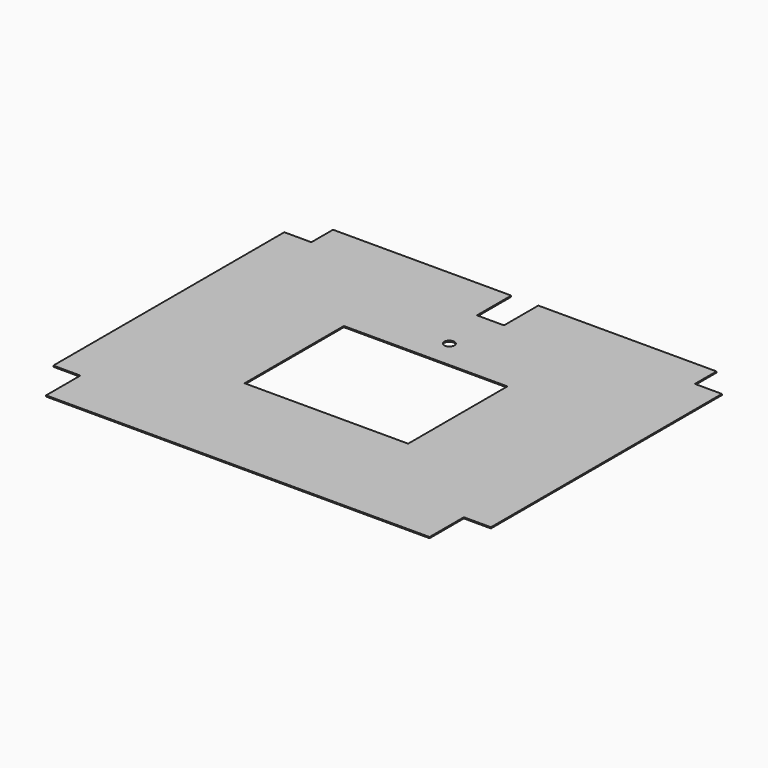
from build123d import *

# Parameters (mm, degrees)
BOX005_W       = 145
BOX005_H       = 110
BOX005_DEPTH   = 1
BOX006_W       = 24
BOX006_H       = 38
BOX006_DEPTH   = 1
CYLINDER_R     = 4.5
CYLINDER_DEPTH = 1
BOX002_W       = 24
BOX002_H       = 38
BOX002_DEPTH   = 1
BOX003_W       = 24
BOX003_H       = 24
BOX003_DEPTH   = 1
BOX004_W       = 24
BOX004_H       = 24
BOX004_DEPTH   = 1
BOX001_W       = 24
BOX001_H       = 38
BOX001_DEPTH   = 1
BOX_W          = 388
BOX_H          = 318
BOX_DEPTH      = 1


with BuildPart() as hueco_central:
    # Box005 → Box005 (new body)
    with BuildSketch(Plane(origin=(120, 100, 0), x_dir=(1, 0, 0), z_dir=(0, 0, 1))):
        with Locations((72.5, 55)):
            Rectangle(BOX005_W, BOX005_H)
    extrude(amount=BOX005_DEPTH)


with BuildPart() as cubo005:
    # Box006 → Box006 (new body)
    with BuildSketch(Plane(origin=(182, 280, 0), x_dir=(1, 0, 0), z_dir=(0, 0, 1))):
        with Locations((12, 19)):
            Rectangle(BOX006_W, BOX006_H)
    extrude(amount=BOX006_DEPTH)


with BuildPart() as cilindro:
    # Cylinder → Cylinder (new body)
    with BuildSketch(Plane(origin=(193.5, 235, 0), x_dir=(1, 0, 0), z_dir=(0, 0, 1))):
        Circle(CYLINDER_R)
    extrude(amount=CYLINDER_DEPTH)


with BuildPart() as cubo002:
    # Box002 → Box002 (new body)
    with BuildSketch(Plane(origin=(364, 0, 0), x_dir=(1, 0, 0), z_dir=(0, 0, 1))):
        with Locations((12, 19)):
            Rectangle(BOX002_W, BOX002_H)
    extrude(amount=BOX002_DEPTH)


with BuildPart() as cubo003:
    # Box003 → Box003 (new body)
    with BuildSketch(Plane(origin=(0, 294, 0), x_dir=(1, 0, 0), z_dir=(0, 0, 1))):
        with Locations((12, 12)):
            Rectangle(BOX003_W, BOX003_H)
    extrude(amount=BOX003_DEPTH)


with BuildPart() as cubo004:
    # Box004 → Box004 (new body)
    with BuildSketch(Plane(origin=(364, 294, 0), x_dir=(1, 0, 0), z_dir=(0, 0, 1))):
        with Locations((12, 12)):
            Rectangle(BOX004_W, BOX004_H)
    extrude(amount=BOX004_DEPTH)


with BuildPart() as obj1:
    # Box001 → Box001 (new body)
    with BuildSketch(Plane.XY):
        with Locations((12, 19)):
            Rectangle(BOX001_W, BOX001_H)
    extrude(amount=BOX001_DEPTH)

    # Fusion: union Cubo002, Cubo003, Cubo004
    add(cubo002.part)
    add(cubo003.part)
    add(cubo004.part)

    # Fusion001: union hueco central, Cubo005, Cilindro
    add(hueco_central.part)
    add(cubo005.part)
    add(cilindro.part)


with BuildPart() as cut:
    # Box → Box (new body)
    with BuildSketch(Plane.XY):
        with Locations((194, 159)):
            Rectangle(BOX_W, BOX_H)
    extrude(amount=BOX_DEPTH)

    # Cut: cut obj1
    add(obj1.part, mode=Mode.SUBTRACT)


solid = cut.part
